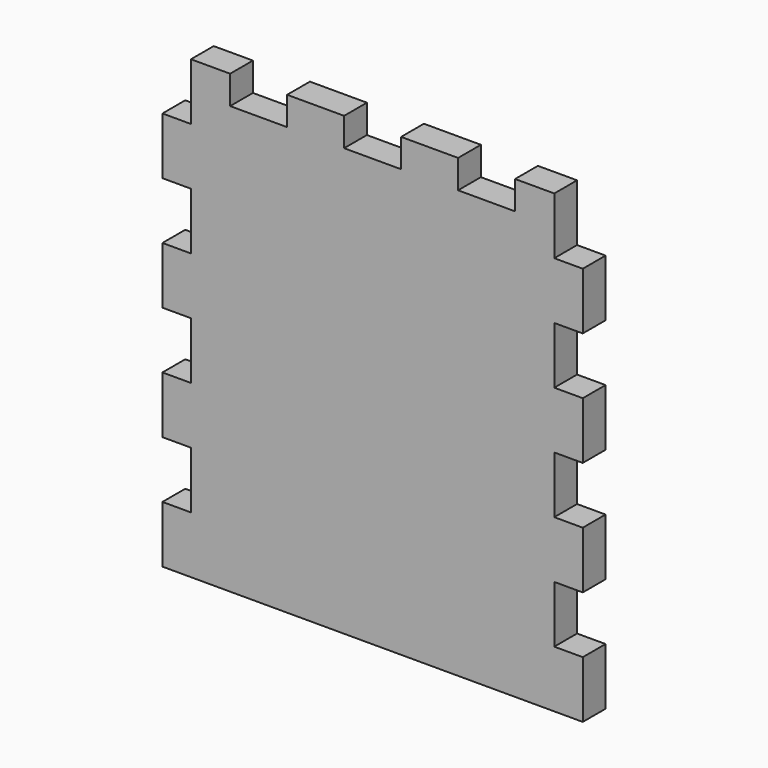
from build123d import *

# Parameters (mm, degrees)
F0_W     = 140.49375
F0_H     = 152.4
F1_DEPTH = 9.525
F2_W     = 9.525
F2_H     = 19.05
F2_W_2   = 19.05
F2_H_2   = 9.525
F3_DEPTH = 25.4


with BuildPart() as f1:
    # F0 (on Front) → F1 (new body)
    with BuildSketch(Plane.XZ):
        with Locations((70.246875, 76.2)):
            Rectangle(F0_W, F0_H)
    extrude(amount=F1_DEPTH)

    # F2 (on face) → F3 (cut)
    with BuildSketch(Plane.XZ.offset(9.525)):
        with Locations((4.7625, 142.875)):
            Rectangle(F2_W, F2_H)
        with Locations((4.7625, 104.775)):
            Rectangle(F2_W, F2_H)
        with Locations((4.7625, 66.675)):
            Rectangle(F2_W, F2_H)
        with Locations((4.7625, 28.575)):
            Rectangle(F2_W, F2_H)
        with Locations((32.146875, 147.6375)):
            Rectangle(F2_W_2, F2_H_2)
        with Locations((70.246875, 147.6375)):
            Rectangle(F2_W_2, F2_H_2)
        with Locations((108.346875, 147.6375)):
            Rectangle(F2_W_2, F2_H_2)
        with Locations((135.73125, 142.875)):
            Rectangle(F2_W, F2_H)
        with Locations((135.73125, 104.775)):
            Rectangle(F2_W, F2_H)
        with Locations((135.73125, 66.675)):
            Rectangle(F2_W, F2_H)
        with Locations((135.73125, 28.575)):
            Rectangle(F2_W, F2_H)
    extrude(amount=-F3_DEPTH, mode=Mode.SUBTRACT)


solid = f1.part
